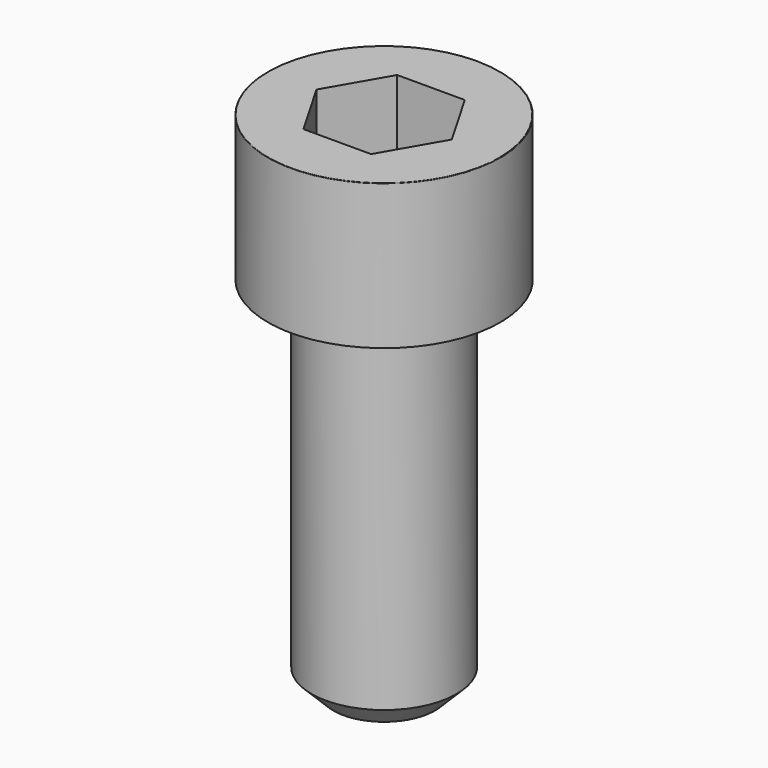
from build123d import *

# Parameters (mm, degrees)
POCKET_DEPTH = 8.07


with BuildPart() as part:
    # Sketch → Revolve (revolve)
    with BuildSketch(Plane.YZ):
        with BuildLine():
            Line((4.999, 0), (8, 0))
            Line((8, 0), (8, 9.97229))
            ThreePointArc((8, 9.97229), (7.991884, 9.991884), (7.97229, 10))
            Line((7.97229, 10), (0, 10))
            Line((0, -25), (0, 10))
            Line((3.5, -25), (0, -25))
            Line((5, -23.5), (3.5, -25))
            Line((5, -0.2), (5, -23.5))
            Line((4.999, 0), (5, -0.2))
        make_face()
    revolve(axis=Axis((0, 0, 0), (0, 0, 1)))

    # Sketch001 → Pocket (cut)
    with BuildSketch(Plane.XY.offset(10)):
        Polygon((4.659217, 0), (2.329608, 4.035), (-2.329608, 4.035), (-4.659217, 0), (-2.329608, -4.035), (2.329608, -4.035), align=None)
    extrude(amount=-POCKET_DEPTH, mode=Mode.SUBTRACT)


solid = part.part
